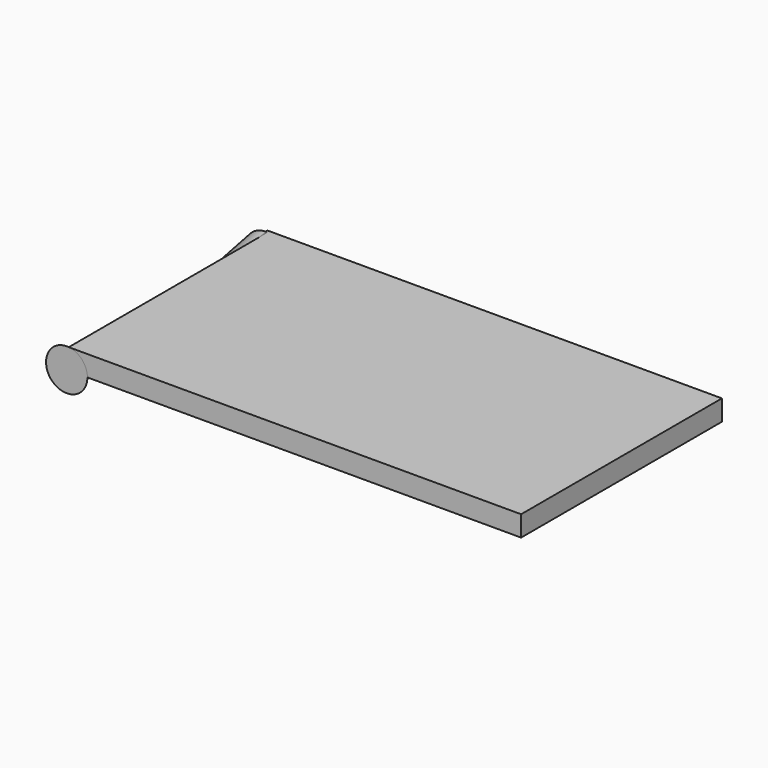
from build123d import *

# Parameters (mm, degrees)
F0_W     = 90.533763
F0_H     = 50.009125
F1_DEPTH = 4.1
F2_R     = 4.120271
F3_DEPTH = 49.5


with BuildPart() as f1:
    # F0 (on Top) → F1 (new body)
    with BuildSketch(Plane.XY):
        with Locations((-1.724452, -14.80155)):
            Rectangle(F0_W, F0_H)
    extrude(amount=F1_DEPTH)

    # F2 (on face) → F3 (join)
    with BuildSketch(Plane.XZ.offset(39.806113)):
        with Locations((-46.991333, 0)):
            Circle(F2_R)
    extrude(amount=-F3_DEPTH)


solid = f1.part
